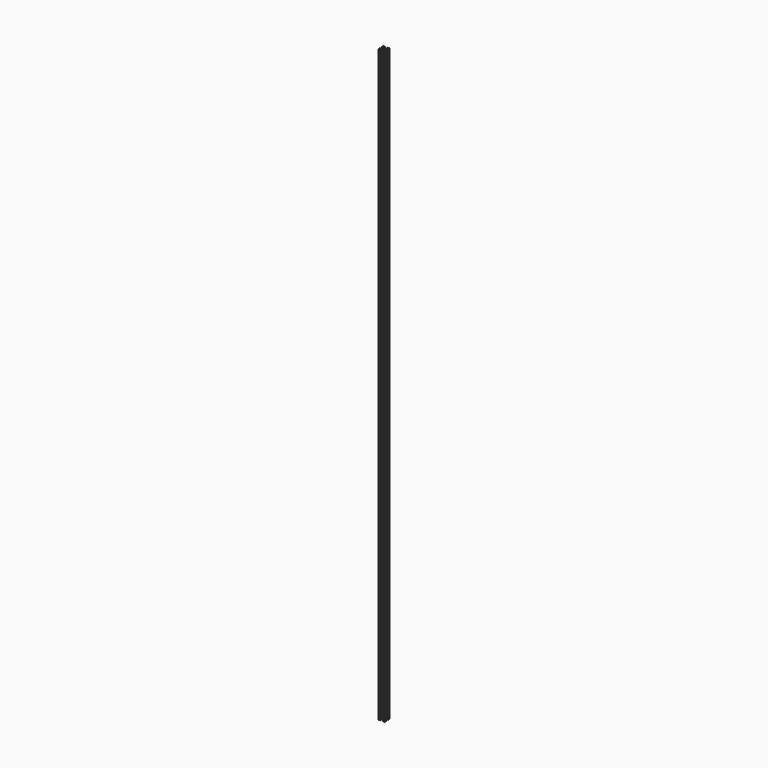
from build123d import *

# Parameters (mm, degrees)
F0_W     = 25.4
F0_H     = 25.4
F1_DEPTH = 2489.2
F3_DEPTH = 2489.2
F4_R     = 2.2225
F5_DEPTH = 2489.2


with BuildPart() as f1:
    # F0 (on Top) → F1 (new body)
    with BuildSketch(Plane.XY):
        with Locations((12.7, -12.7)):
            Rectangle(F0_W, F0_H)
    extrude(amount=F1_DEPTH)

    # F2 (on face) → F3 (cut)
    with BuildSketch(Plane(origin=(0, 0, 0), x_dir=(1, 0, 0), z_dir=(0, 0, -1))):
        Polygon((2.54, 17.78), (0, 17.78), (0, 7.62), (2.54, 7.62), (2.54, 4.336051), (8.89, 10.686051), (8.89, 14.713949), (2.54, 21.063949), align=None)
        Polygon((7.62, 2.54), (7.62, 0), (17.78, 0), (17.78, 2.54), (21.063949, 2.54), (14.713949, 8.89), (10.686051, 8.89), (4.336051, 2.54), align=None)
        Polygon((25.4, 7.62), (25.4, 17.78), (22.86, 17.78), (22.86, 21.063949), (16.51, 14.713949), (16.51, 10.686051), (22.86, 4.336051), (22.86, 7.62), align=None)
        Polygon((17.78, 25.4), (7.62, 25.4), (7.62, 22.86), (4.336051, 22.86), (10.686051, 16.51), (12.7, 16.51), (14.713949, 16.51), (21.063949, 22.86), (17.78, 22.86), align=None)
    extrude(amount=-F3_DEPTH, mode=Mode.SUBTRACT)

    # F4 (on face) → F5 (cut)
    with BuildSketch(Plane(origin=(0, 0, 0), x_dir=(1, 0, 0), z_dir=(0, 0, -1))):
        with Locations((12.7, 12.7)):
            Circle(F4_R)
    extrude(amount=-F5_DEPTH, mode=Mode.SUBTRACT)


solid = f1.part
